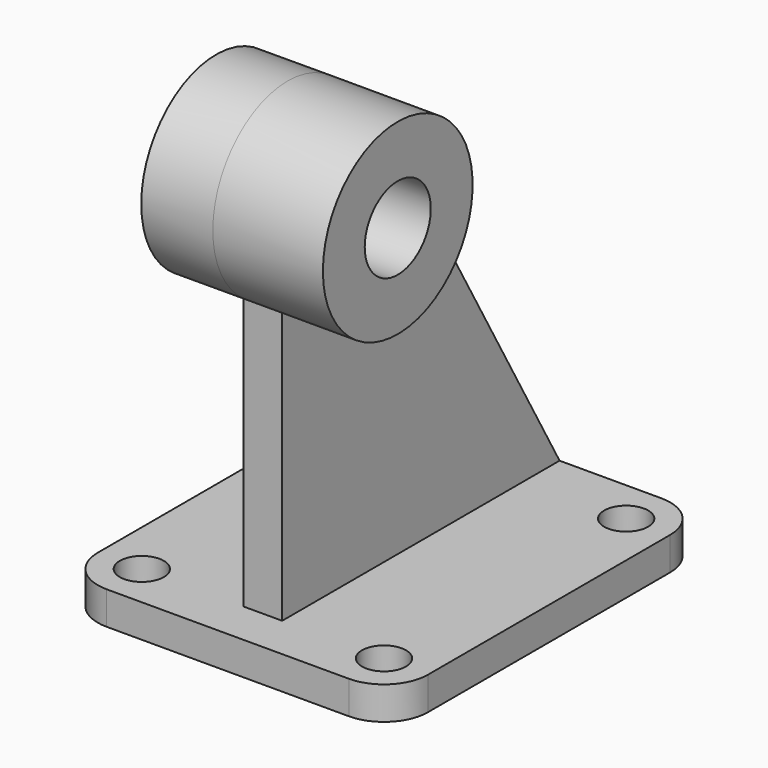
from build123d import *

# Parameters (mm, degrees)
F0_R      = 8
F1_DEPTH  = 12
F3_DEPTH  = 126
F4_R      = 34
F5_DEPTH  = 26
F6_DEPTH  = 40
F7_R      = 15
F8_DEPTH  = 66
F10_DEPTH = 14


with BuildPart() as f1:
    # F0 (on Top) → F1 (new body)
    with BuildSketch(Plane.XY):
        with BuildLine():
            ThreePointArc((-60, -66), (-55.313708, -77.313708), (-44, -82))
            Line((-44, -82), (44, -82))
            ThreePointArc((44, -82), (55.313708, -77.313708), (60, -66))
            Line((60, -66), (60, 44))
            ThreePointArc((60, 44), (55.313708, 55.313708), (44, 60))
            Line((44, 60), (0, 60))
            Line((0, 60), (-44, 60))
            ThreePointArc((-44, 60), (-55.313708, 55.313708), (-60, 44))
            Line((-60, 44), (-60, -66))
        make_face()
        with Locations((-44, -66)):
            Circle(F0_R, mode=Mode.SUBTRACT)
        with Locations((44, -66)):
            Circle(F0_R, mode=Mode.SUBTRACT)
        with Locations((-44, 44)):
            Circle(F0_R, mode=Mode.SUBTRACT)
        with Locations((44, 44)):
            Circle(F0_R, mode=Mode.SUBTRACT)
    extrude(amount=F1_DEPTH)

    # F2 (on face) → F3 (join)
    with BuildSketch(Plane.XY.offset(12)):
        Polygon((7, 60), (0, 60), (-7, 60), (-7, -66), (7, -66), align=None)
    extrude(amount=F3_DEPTH)

    # F4 (on face) → F5 (join)
    with BuildSketch(Plane(origin=(-7, 0, 0), x_dir=(0, -1, 0), z_dir=(-1, 0, 0))):
        with Locations((46, 138)):
            Circle(F4_R)
    extrude(amount=F5_DEPTH)

    # F4 (on face) → F6 (join)
    with BuildSketch(Plane(origin=(-7, 0, 0), x_dir=(0, -1, 0), z_dir=(-1, 0, 0))):
        with Locations((46, 138)):
            Circle(F4_R)
    extrude(amount=-F6_DEPTH)

    # F7 (on face) → F8 (cut)
    with BuildSketch(Plane(origin=(-33, 0, 0), x_dir=(0, -1, 0), z_dir=(-1, 0, 0))):
        with Locations((46, 138)):
            Circle(F7_R)
    extrude(amount=-F8_DEPTH, mode=Mode.SUBTRACT)

    # F9 (on face) → F10 (cut)
    with BuildSketch(Plane(origin=(-7, 0, 0), x_dir=(0, -1, 0), z_dir=(-1, 0, 0))):
        Polygon((-60, 12), (12, 138), (-60, 138), align=None)
    extrude(amount=-F10_DEPTH, mode=Mode.SUBTRACT)


solid = f1.part
